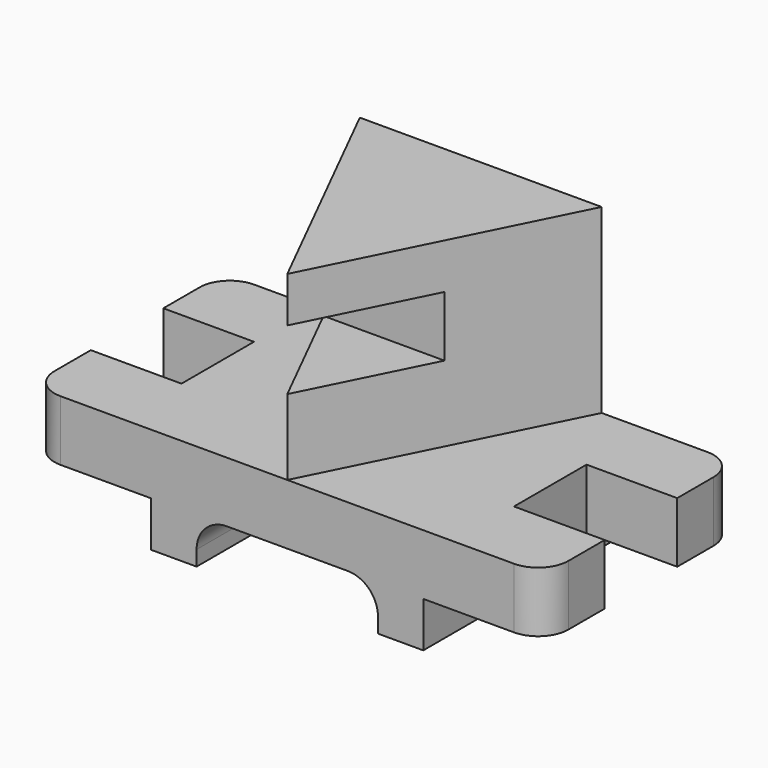
from build123d import *

# Parameters (mm, degrees)
F1_DEPTH      = 101.6
F2_W          = 38.1
F2_H          = 38.1
F3_DEPTH      = 44.451
F5_DEPTH      = 76.2
F6_W          = 50.8
F6_H          = 25.4
F7_DEPTH      = 107.951
F7_DEPTH_BACK = 107.951


with BuildPart() as f1:
    # F0 (on Front) → F1 (new body)
    with BuildSketch(Plane.XZ):
        with BuildLine():
            Line((107.95, 0), (-107.95, 0))
            Line((-107.95, 0), (-107.95, -25.4))
            Line((-107.95, -25.4), (-57.15, -25.4))
            Line((-57.15, -25.4), (-57.15, -44.45))
            Line((-57.15, -44.45), (-38.1, -44.45))
            Line((-38.1, -44.45), (-38.1, -38.1))
            ThreePointArc((-38.1, -38.1), (-34.3802561211, -29.1197438789), (-25.4, -25.4))
            Line((-25.4, -25.4), (25.4, -25.4))
            ThreePointArc((25.4, -25.4), (34.3802561211, -29.1197438789), (38.1, -38.1))
            Line((38.1, -38.1), (38.1, -44.45))
            Line((38.1, -44.45), (57.15, -44.45))
            Line((57.15, -44.45), (57.15, -25.4))
            Line((57.15, -25.4), (107.95, -25.4))
            Line((107.95, -25.4), (107.95, 0))
        make_face()
    extrude(amount=F1_DEPTH)

    # F2 (on face) → F3 (cut, through all)
    with BuildSketch(Plane.XY):
        with BuildLine():
            ThreePointArc((-107.95, -12.7), (-104.2302561211, -3.7197438789), (-95.25, 0))
            Line((-95.25, 0), (-107.95, 0))
            Line((-107.95, 0), (-107.95, -12.7))
        make_face()
        with BuildLine():
            ThreePointArc((-95.25, -101.6), (-104.2302561211, -97.8802561211), (-107.95, -88.9))
            Line((-107.95, -88.9), (-107.95, -101.6))
            Line((-107.95, -101.6), (-95.25, -101.6))
        make_face()
        with BuildLine():
            ThreePointArc((107.95, -88.9), (104.2302561211, -97.8802561211), (95.25, -101.6))
            Line((95.25, -101.6), (107.95, -101.6))
            Line((107.95, -101.6), (107.95, -88.9))
        make_face()
        with BuildLine():
            ThreePointArc((95.25, 0), (104.2302561211, -3.7197438789), (107.95, -12.7))
            Line((107.95, -12.7), (107.95, 0))
            Line((107.95, 0), (95.25, 0))
        make_face()
        with Locations((-88.9, -50.8)):
            Rectangle(F2_W, F2_H)
        with Locations((88.9, -50.8)):
            Rectangle(F2_W, F2_H)
    extrude(amount=-F3_DEPTH, mode=Mode.SUBTRACT)

    # F4 (on face) → F5 (join)
    with BuildSketch(Plane.XY):
        Polygon((-50.8, 0), (0, -101.6), (50.8, 0), align=None)
    extrude(amount=F5_DEPTH)

    # F6 (on Right) → F7 (cut, two sides)
    with BuildSketch(Plane.YZ) as f7_sk:
        with Locations((-76.2, 44.45)):
            Rectangle(F6_W, F6_H)
    extrude(amount=-F7_DEPTH, mode=Mode.SUBTRACT)
    extrude(f7_sk.sketch, amount=F7_DEPTH_BACK, mode=Mode.SUBTRACT)


solid = f1.part
